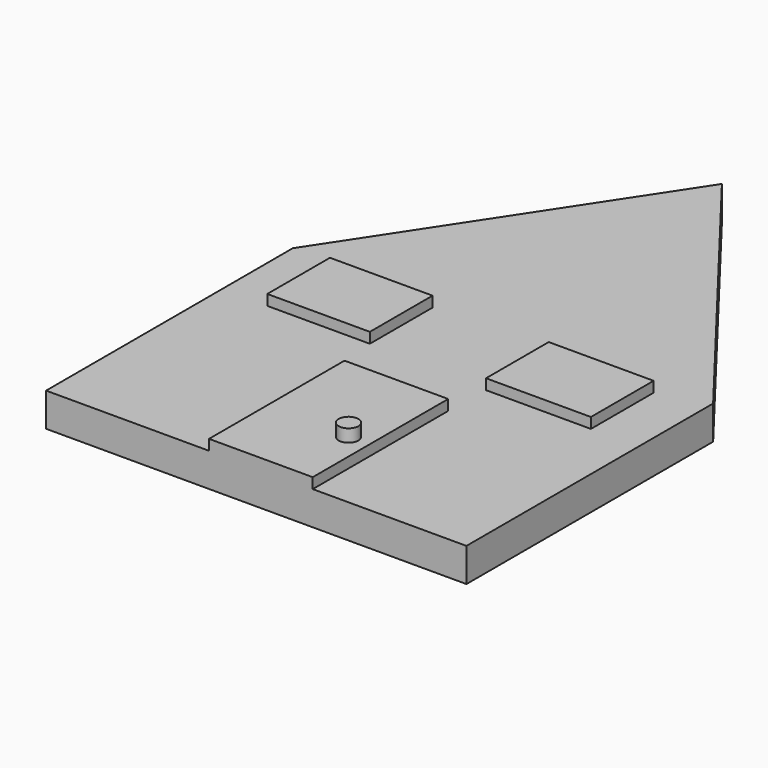
from build123d import *

# Parameters (mm, degrees)
F2_DEPTH  = 5.08
F1_W      = 52.124873735
F1_H      = 98.4580833465
F1_W_2    = 54.0554076433
F1_H_2    = 52.1248690784
F1_W_3    = 53.0901476741
F1_H_3    = 52.1248728037
F3_DEPTH  = 7.62
F4_DEPTH  = 7.62
F5_W      = 62.6767296344
F5_H      = 102.3222543299
F6_DEPTH  = 6.35
F7_R      = 5.9501097349
F8_DEPTH  = 7.62
F9_W      = 61.9803220034
F9_H      = 47.3557561636
F9_W_2    = 63.3731409907
F9_H_2    = 47.3557598889
F10_DEPTH = 6.35


with BuildPart() as f2:
    # F0 (on Top) → F2 (new body)
    with BuildSketch(Plane.XY):
        Polygon((-23.608982563, 281.8368527174), (-140.678524971, 104.0368527174), (-66.4795190096, 104.0368527174), (-61.5329220891, 104.0368527174), (-23.608982563, 104.0368527174), align=None)
        Polygon((113.321475029, 104.0368527174), (-23.608982563, 281.8368527174), (-23.608982563, 104.0368527174), align=None)
        Polygon((-66.4795190096, 104.0368527174), (-140.678524971, 104.0368527174), (-140.678524971, -82.2851061821), (113.321475029, -82.2851061821), (113.321475029, 104.0368527174), (-23.608982563, 104.0368527174), (-61.5329220891, 104.0368527174), align=None)
    extrude(amount=F2_DEPTH)

    # F1 (on face) + F2_face (on face) → F3 (join)
    with BuildSketch(Plane.XY):
        with Locations((-13.7297245674, -28.9409598336)):
            Rectangle(F1_W, F1_H)
        with Locations((58.6659163237, 62.7601984888)):
            Rectangle(F1_W_2, F1_H_2)
        with Locations((-93.3649428189, 57.9338222742)):
            Rectangle(F1_W_3, F1_H_3)
    with BuildSketch(Plane(origin=(-14.7477440157, 60.1118346493, 5.08), x_dir=(1, 0, 0), z_dir=(0, 0, 1))):
        Polygon((-8.8612385473, 221.7250180681), (-125.9307809553, 43.9250180681), (-125.9307809553, -142.3969408314), (128.0692190447, -142.3969408314), (128.0692190447, 43.9250180681), align=None)
    extrude(amount=F3_DEPTH)

    # F1 (on face) + F3_face (on face) → F4 (join)
    with BuildSketch(Plane.XY):
        with Locations((-13.7297245674, -28.9409598336)):
            Rectangle(F1_W, F1_H)
        with Locations((58.6659163237, 62.7601984888)):
            Rectangle(F1_W_2, F1_H_2)
        with Locations((-93.3649428189, 57.9338222742)):
            Rectangle(F1_W_3, F1_H_3)
    with BuildSketch(Plane(origin=(-14.7477440157, 60.1118346493, 12.7), x_dir=(1, 0, 0), z_dir=(0, 0, 1))):
        Polygon((128.0692190447, 43.9250180681), (-8.8612385473, 221.7250180681), (-125.9307809553, 43.9250180681), (-125.9307809553, -142.3969408314), (128.0692190447, -142.3969408314), align=None)
    extrude(amount=F4_DEPTH)

    # F5 (on face) → F6 (join)
    with BuildSketch(Plane.XY.offset(20.32)):
        with Locations((-10.8928931877, -31.1239790171)):
            Rectangle(F5_W, F5_H)
    extrude(amount=F6_DEPTH)

    # F7 (on face) → F8 (join)
    with BuildSketch(Plane.XY.offset(26.67)):
        with Locations((7.9101277515, -39.591267705)):
            Circle(F7_R)
    extrude(amount=F8_DEPTH)

    # F9 (on face) → F10 (join)
    with BuildSketch(Plane.XY.offset(20.32)):
        with Locations((-82.2747275233, 74.1913020611)):
            Rectangle(F9_W, F9_H)
        with Locations((52.8284572065, 71.4056696743)):
            Rectangle(F9_W_2, F9_H_2)
    extrude(amount=F10_DEPTH)


solid = f2.part
